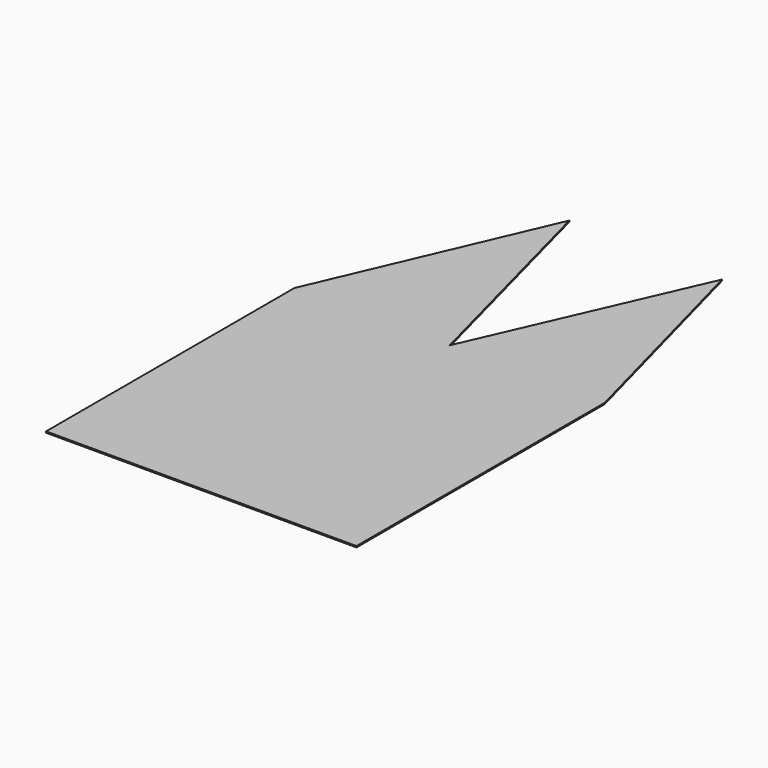
from build123d import *

# Parameters (mm, degrees)
F1_DEPTH = 0.106049


with BuildPart() as f1:
    # F0 (on Top) → F1 (new body)
    with BuildSketch(Plane.XY):
        Polygon((-4.818946, 30.961748), (-12.7, 12.7), (0, 12.7), align=None)
        Polygon((0, 12.7), (12.7, 12.7), (7.897086, 30.680031), align=None)
        Polygon((-12.7, -12.7), (12.7, -12.7), (12.7, 12.7), (0, 12.7), (-12.7, 12.7), align=None)
    extrude(amount=F1_DEPTH)


solid = f1.part
